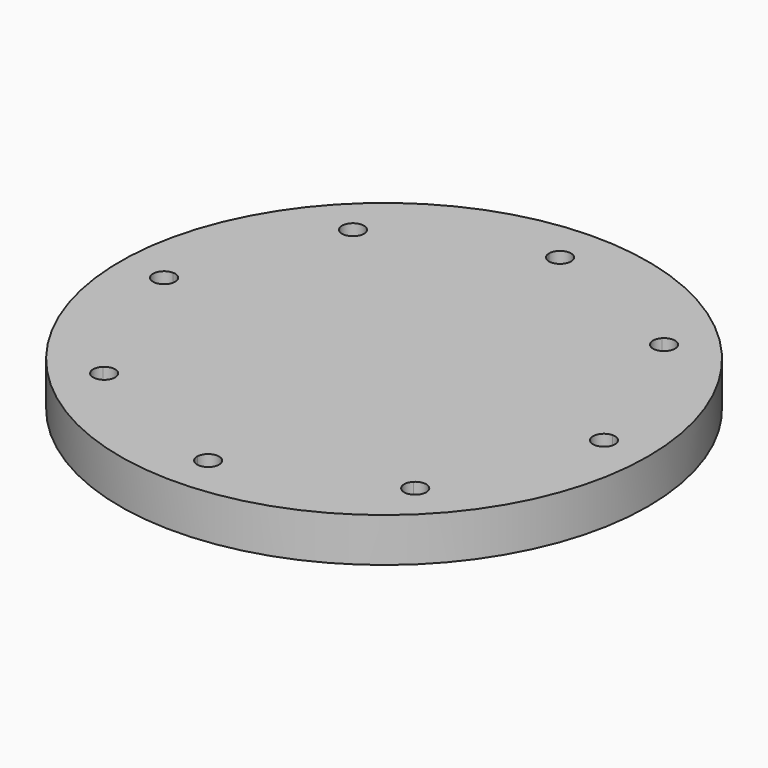
from build123d import *

# Parameters (mm, degrees)
F0_R     = 76.2
F1_DEPTH = 12.7


with BuildPart() as f1:
    # F0 (on Top) → F1 (new body)
    with BuildSketch(Plane.XY):
        Circle(F0_R)
        with BuildLine():
            ThreePointArc((47.0895163427, 42.6007916665), (58.6663503145, 24.3003979552), (63.420625, 3.1740076574))
            ThreePointArc((63.420625, 3.1740076574), (65.7168231069, 2.2729540938), (66.675, 0))
            ThreePointArc((66.675, 0), (65.7168231069, -2.2729540938), (63.420625, -3.1740076574))
            ThreePointArc((63.420625, -3.1740076574), (58.6663503145, -24.3003979552), (47.0895163427, -42.6007916665))
            ThreePointArc((47.0895163427, -42.6007916665), (47.8191799753, -43.6496863153), (48.0762806053, -44.9012806053))
            ThreePointArc((48.0762806053, -44.9012806053), (46.0795362268, -47.8495578465), (42.6007916665, -47.0895163427))
            ThreePointArc((42.6007916665, -47.0895163427), (24.3003979552, -58.6663503145), (3.1740076574, -63.420625))
            ThreePointArc((3.1740076574, -63.420625), (3.1747519047, -63.4603093986), (3.175, -63.5))
            ThreePointArc((3.175, -63.5), (-0.0396906014, -66.6747519047), (-3.1740076574, -63.420625))
            ThreePointArc((-3.1740076574, -63.420625), (-24.3003979552, -58.6663503145), (-42.6007916665, -47.0895163427))
            ThreePointArc((-42.6007916665, -47.0895163427), (-47.1463446356, -47.1463446356), (-47.0895163427, -42.6007916665))
            ThreePointArc((-47.0895163427, -42.6007916665), (-58.6663503145, -24.3003979552), (-63.420625, -3.1740076574))
            ThreePointArc((-63.420625, -3.1740076574), (-66.675, 0), (-63.420625, 3.1740076574))
            ThreePointArc((-63.420625, 3.1740076574), (-58.6663503145, 24.3003979552), (-47.0895163427, 42.6007916665))
            ThreePointArc((-47.0895163427, 42.6007916665), (-47.1463446356, 47.1463446356), (-42.6007916665, 47.0895163427))
            ThreePointArc((-42.6007916665, 47.0895163427), (-24.3003979552, 58.6663503145), (-3.1740076574, 63.420625))
            ThreePointArc((-3.1740076574, 63.420625), (-0.0396906014, 66.6747519047), (3.175, 63.5))
            ThreePointArc((3.175, 63.5), (3.1747519047, 63.4603093986), (3.1740076574, 63.420625))
            ThreePointArc((3.1740076574, 63.420625), (24.3003979552, 58.6663503145), (42.6007916665, 47.0895163427))
            ThreePointArc((42.6007916665, 47.0895163427), (46.0795362268, 47.8495578465), (48.0762806053, 44.9012806053))
            ThreePointArc((48.0762806053, 44.9012806053), (47.8191799753, 43.6496863153), (47.0895163427, 42.6007916665))
        make_face(mode=Mode.SUBTRACT)
        with BuildLine():
            Line((0, 0), (42.6562165751, 42.6562165751))
            ThreePointArc((42.6562165751, 42.6562165751), (41.7265287007, 44.8615900039), (42.6007916665, 47.0895163427))
            ThreePointArc((42.6007916665, 47.0895163427), (24.3003979552, 58.6663503145), (3.1740076574, 63.420625))
            ThreePointArc((3.1740076574, 63.420625), (0, 60.325), (-3.1740076574, 63.420625))
            ThreePointArc((-3.1740076574, 63.420625), (-24.3003979552, 58.6663503145), (-42.6007916665, 47.0895163427))
            ThreePointArc((-42.6007916665, 47.0895163427), (-41.9530033642, 46.0795362268), (-41.7262806053, 44.9012806053))
            ThreePointArc((-41.7262806053, 44.9012806053), (-41.9679630896, 43.6862607076), (-42.6562165751, 42.6562165751))
            Line((-42.6562165751, 42.6562165751), (0, 0))
        make_face()
        with BuildLine():
            Line((-42.6562165751, -42.6562165751), (0, 0))
            Line((0, 0), (-42.6562165751, 42.6562165751))
            ThreePointArc((-42.6562165751, 42.6562165751), (-44.8615900039, 41.7265287007), (-47.0895163427, 42.6007916665))
            ThreePointArc((-47.0895163427, 42.6007916665), (-58.6663503145, 24.3003979552), (-63.420625, 3.1740076574))
            ThreePointArc((-63.420625, 3.1740076574), (-61.2270459062, 2.2168231069), (-60.325, 0))
            ThreePointArc((-60.325, 0), (-61.2270459062, -2.2168231069), (-63.420625, -3.1740076574))
            ThreePointArc((-63.420625, -3.1740076574), (-58.6663503145, -24.3003979552), (-47.0895163427, -42.6007916665))
            ThreePointArc((-47.0895163427, -42.6007916665), (-44.8615900039, -41.7265287007), (-42.6562165751, -42.6562165751))
        make_face()
        with BuildLine():
            ThreePointArc((42.6007916665, -47.0895163427), (41.7265287007, -44.8615900039), (42.6562165751, -42.6562165751))
            Line((42.6562165751, -42.6562165751), (0, 0))
            Line((0, 0), (-42.6562165751, -42.6562165751))
            ThreePointArc((-42.6562165751, -42.6562165751), (-41.9679630896, -43.6862607076), (-41.7262806053, -44.9012806053))
            ThreePointArc((-41.7262806053, -44.9012806053), (-41.9530033642, -46.0795362268), (-42.6007916665, -47.0895163427))
            ThreePointArc((-42.6007916665, -47.0895163427), (-24.3003979552, -58.6663503145), (-3.1740076574, -63.420625))
            ThreePointArc((-3.1740076574, -63.420625), (0, -60.325), (3.1740076574, -63.420625))
            ThreePointArc((3.1740076574, -63.420625), (24.3003979552, -58.6663503145), (42.6007916665, -47.0895163427))
        make_face()
        with BuildLine():
            ThreePointArc((63.420625, -3.1740076574), (60.325, 0), (63.420625, 3.1740076574))
            ThreePointArc((63.420625, 3.1740076574), (58.6663503145, 24.3003979552), (47.0895163427, 42.6007916665))
            ThreePointArc((47.0895163427, 42.6007916665), (44.8615900039, 41.7265287007), (42.6562165751, 42.6562165751))
            Line((42.6562165751, 42.6562165751), (0, 0))
            Line((0, 0), (42.6562165751, -42.6562165751))
            ThreePointArc((42.6562165751, -42.6562165751), (44.8615900039, -41.7265287007), (47.0895163427, -42.6007916665))
            ThreePointArc((47.0895163427, -42.6007916665), (58.6663503145, -24.3003979552), (63.420625, -3.1740076574))
        make_face()
    extrude(amount=F1_DEPTH)


solid = f1.part
